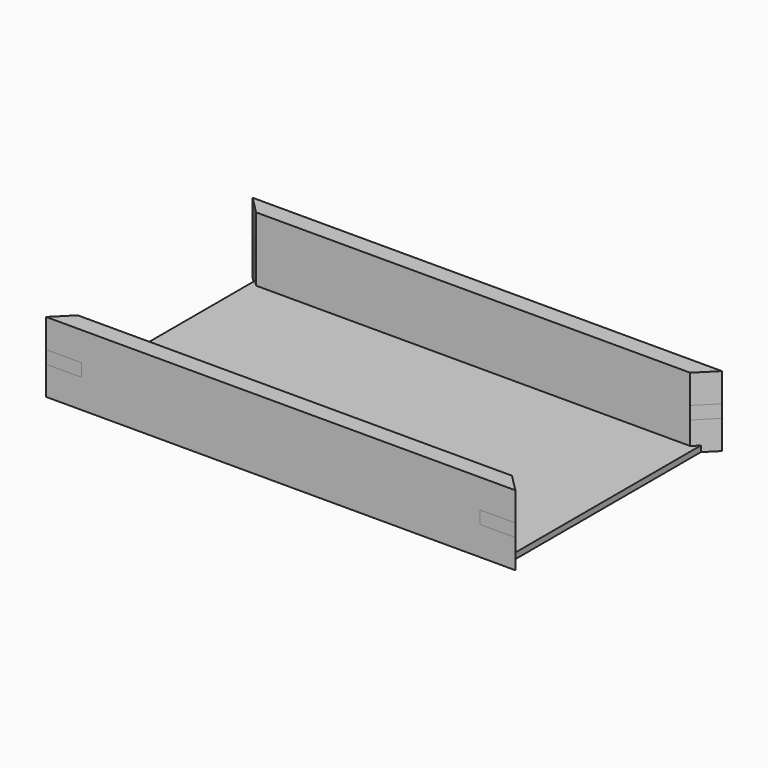
from build123d import *

# Parameters (mm, degrees)
F0_W      = 400
F0_H      = 60
F1_DEPTH  = 7.5
F3_DEPTH  = 60
F4_W      = 21.2132034356
F4_H      = 10
F5_DEPTH  = 25
F6_W      = 21.2132034356
F6_H      = 10.9041733667
F7_DEPTH  = 25
F8_W      = 320
F8_H      = 50
F9_DEPTH  = 25
F10_W     = 320
F10_H     = 5
F11_DEPTH = 5
F12_W     = 5
F12_H     = 5
F13_DEPTH = 50
F15_DEPTH = 100
F17_DEPTH = 25
F19_DEPTH = 25
F23_DEPTH = 50
F24_DEPTH = 50


with BuildPart() as f1:
    # F0 (on Front) → F1 (new body, symmetric)
    with BuildSketch(Plane.XZ):
        Rectangle(F0_W, F0_H)
    extrude(amount=F1_DEPTH, both=True)

    # F2 (on face) → F3 (cut)
    with BuildSketch(Plane.XY.offset(30)):
        Polygon((-200, 7.5), (-200, -7.5), (-185, 7.5), align=None)
        Polygon((185, 7.5), (200, -7.5), (200, 7.5), align=None)
    extrude(amount=-F3_DEPTH, mode=Mode.SUBTRACT)

    # F4 (on face) → F5 (cut)
    with BuildSketch(Plane(origin=(96.25, 96.25, 0), x_dir=(-0.7071067812, 0.7071067812, 0), z_dir=(0.7071067812, 0.7071067812, 0))):
        with Locations((-136.1180553784, 0)):
            Rectangle(F4_W, F4_H)
    extrude(amount=-F5_DEPTH, mode=Mode.SUBTRACT)

    # F6 (on face) → F7 (cut)
    with BuildSketch(Plane(origin=(-96.25, 96.25, 0), x_dir=(-0.7071067812, -0.7071067812, 0), z_dir=(-0.7071067812, 0.7071067812, 0))):
        with Locations((136.1180553784, 0)):
            Rectangle(F6_W, F6_H)
    extrude(amount=-F7_DEPTH, mode=Mode.SUBTRACT)

    # F8 (on face) → F9 (cut)
    with BuildSketch(Plane.XZ.offset(7.5)):
        Rectangle(F8_W, F8_H)
    extrude(amount=-F9_DEPTH, mode=Mode.SUBTRACT)

    # F10 (on face) → F11 (cut)
    with BuildSketch(Plane(origin=(0, 7.5, 0), x_dir=(-1, 0, 0), z_dir=(0, 1, 0))):
        with Locations((0, -27.5)):
            Rectangle(F10_W, F10_H)
    extrude(amount=-F11_DEPTH, mode=Mode.SUBTRACT)

    # F12 (on face) → F13 (cut)
    with BuildSketch(Plane.YZ.offset(-160)):
        with Locations((5, -27.5)):
            Rectangle(F12_W, F12_H)
    extrude(amount=-F13_DEPTH, mode=Mode.SUBTRACT)

    # F14: F1 across plane


with BuildPart() as f1_1:
    add(f1.part)
    add(f1.part.mirror(Plane.YZ), mode=Mode.INTERSECT)


with BuildPart() as f15:
    # F15 (new): a face of the model
    f15_faces = [f1_1.part.faces().sort_by_distance(p)[0] for p in [
        (0, 2.5, -27.5),
    ]]
    extrude(f15_faces, amount=F15_DEPTH)

    # F20: F15 across plane


with BuildPart() as f17:
    # F17 (new): a face of the model
    f17_faces = [f1_1.part.faces().sort_by_distance(p)[0] for p in [
        (177.5, 0, 0),
    ]]
    extrude(f17_faces, amount=F17_DEPTH)

    # F18 (on face) → F19 (cut)
    with BuildSketch(Plane.XY.offset(5.4520866834)):
        Polygon((200, -7.5), (170, -7.5), (187.6776695297, -25.1776695297), (202.6776695297, -10.1776695297), align=None)
    extrude(amount=-F19_DEPTH, mode=Mode.SUBTRACT)


with BuildPart() as f15_1:
    add(f15.part)
    add(f15.part.mirror(Plane(origin=(0, 102.5, -27.5), x_dir=(-1, 0, 0), z_dir=(0, 1, 0))))


with BuildPart() as f21_1:
    # F21: instance of F17
    add(f17.part.mirror(Plane.YZ))


with BuildPart() as f22_1:
    # F22: instance of F1
    add(f1_1.part.mirror(Plane(origin=(0, 102.5, -27.5), x_dir=(-1, 0, 0), z_dir=(0, 1, 0))))

    # F23 (add): a face of the model
    f23_faces = [f22_1.faces().sort_by_distance(p)[0] for p in [
        (0, 205, 25),
    ]]
    extrude(f23_faces, amount=F23_DEPTH)


with BuildPart() as f22_2:
    # F22: instance of F21_1
    add(f21_1.part.mirror(Plane(origin=(0, 102.5, -27.5), x_dir=(-1, 0, 0), z_dir=(0, 1, 0))))


with BuildPart() as f22_3:
    # F22: instance of F17
    add(f17.part.mirror(Plane(origin=(0, 102.5, -27.5), x_dir=(-1, 0, 0), z_dir=(0, 1, 0))))


with BuildPart() as f1_2:
    add(f1_1.part)

    # F24 (add): a face of the model
    f24_faces = [f1_2.faces().sort_by_distance(p)[0] for p in [
        (0, 0, 25),
    ]]
    extrude(f24_faces, amount=F24_DEPTH)


solid = Compound([f17.part, f15_1.part, f21_1.part, f22_1.part, f22_2.part, f22_3.part, f1_2.part])
